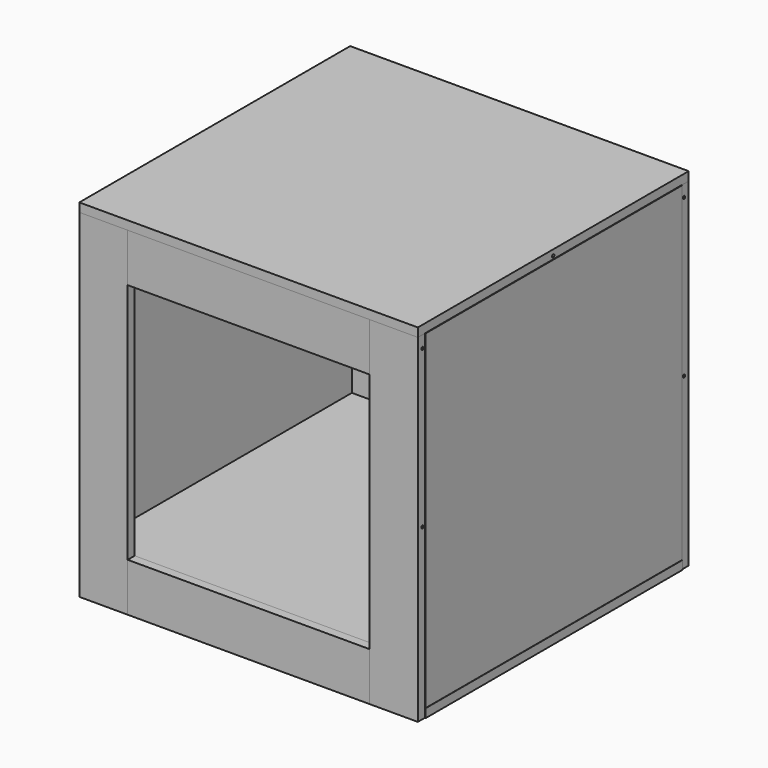
from build123d import *

# Parameters (mm, degrees)
F1_DEPTH    = 700
F0_W        = 18
F0_H        = 664
F2_DEPTH    = 700
F0_W_2      = 500
F0_H_2      = 18
F3_DEPTH    = 100
F4_W        = 500
F4_H        = 18
F5_DEPTH    = 100
F7_DEPTH    = 18
F8_W        = 18
F8_H        = 664
F9_DEPTH    = 18
F10_DEPTH   = 0.1
F11_DEPTH   = 0.1
F12_W       = 664
F12_H       = 682
F13_DEPTH   = 0.1
F14_W       = 664
F14_H       = 18
F14_H_2     = 682
F15_DEPTH   = 1
F16_W       = 664
F16_H       = 18
F17_DEPTH   = 0.5
F19_D       = 6
F19_DEPTH   = 11
F19_TIP     = 1.8025818571
F19_2_D     = 6
F19_2_DEPTH = 11
F19_2_TIP   = 1.8025818571
F19_3_D     = 6
F19_3_DEPTH = 11
F19_3_TIP   = 1.8025818571


with BuildPart() as f1:
    # F0 (on Top) → F1 (new body)
    with BuildSketch(Plane.XY):
        Polygon((-350, -350), (-250, -350), (-250, -332), (-332, -332), (-350, -332), align=None)
    extrude(amount=F1_DEPTH)


with BuildPart() as f1b:
    # F0 (on Top) → F1, piece 2 (new body)
    with BuildSketch(Plane.XY):
        Polygon((250, -350), (350, -350), (350, -332), (332, -332), (250, -332), align=None)
    extrude(amount=F1_DEPTH)

    # F19
    with Locations(Plane.YZ.offset(350)):
        with Locations((-338, 675), (0, 706), (338, 675), (338, 350), (-338, 350)):
            Hole(F19_D / 2, depth=F19_DEPTH)
            with Locations((0, 0, -(F19_DEPTH + F19_TIP / 2))):  # 118° drill point
                Cone(0, F19_D / 2, F19_TIP, mode=Mode.SUBTRACT)


with BuildPart() as f1c:
    # F0 (on Top) → F1, piece 3 (new body)
    with BuildSketch(Plane.XY):
        Polygon((332, 332), (350, 332), (350, 350), (250, 350), (250, 332), align=None)
    extrude(amount=F1_DEPTH)

    # F19#2
    with Locations(Plane.YZ.offset(350)):
        with Locations((-338, 675), (0, 706), (338, 675), (338, 350), (-338, 350)):
            Hole(F19_2_D / 2, depth=F19_2_DEPTH)
            with Locations((0, 0, -(F19_2_DEPTH + F19_2_TIP / 2))):  # 118° drill point
                Cone(0, F19_2_D / 2, F19_2_TIP, mode=Mode.SUBTRACT)


with BuildPart() as f1d:
    # F0 (on Top) → F1, piece 4 (new body)
    with BuildSketch(Plane.XY):
        Polygon((-350, 350), (-350, 332), (-332, 332), (-250, 332), (-250, 350), align=None)
    extrude(amount=F1_DEPTH)


with BuildPart() as f2:
    # F0 (on Top) → F2 (new body, through all)
    with BuildSketch(Plane.XY):
        with Locations((-341, 0)):
            Rectangle(F0_W, F0_H)
    extrude(amount=F2_DEPTH)


with BuildPart() as f2b:
    # F0 (on Top) → F2, piece 2 (new body, through all)
    with BuildSketch(Plane.XY):
        with Locations((341, 0)):
            Rectangle(F0_W, F0_H)
    extrude(amount=F2_DEPTH)


with BuildPart() as f3:
    # F0 (on Top) → F3 (new body)
    with BuildSketch(Plane.XY):
        with Locations((0, -341)):
            Rectangle(F0_W_2, F0_H_2)
    extrude(amount=F3_DEPTH)


with BuildPart() as f3b:
    # F0 (on Top) → F3, piece 2 (new body)
    with BuildSketch(Plane.XY):
        with Locations((0, 341)):
            Rectangle(F0_W_2, F0_H_2)
    extrude(amount=F3_DEPTH)


with BuildPart() as f5:
    # F4 (on face) → F5 (new body)
    with BuildSketch(Plane.XY.offset(700)):
        with Locations((0, 341)):
            Rectangle(F4_W, F4_H)
    extrude(amount=-F5_DEPTH)


with BuildPart() as f5b:
    # F4 (on face) → F5, piece 2 (new body)
    with BuildSketch(Plane.XY.offset(700)):
        with Locations((0, -341)):
            Rectangle(F4_W, F4_H)
    extrude(amount=-F5_DEPTH)


with BuildPart() as f7:
    # F6 (on face) → F7 (new body)
    with BuildSketch(Plane.XY.offset(100)):
        Polygon((332, -332), (332, 332), (250, 332), (-250, 332), (-332, 332), (-332, -332), align=None)
    extrude(amount=-F7_DEPTH)


with BuildPart() as f9:
    # F8 (on face) → F9 (new body)
    with BuildSketch(Plane.XY.offset(700)):
        Polygon((250, 350), (-250, 350), (-350, 350), (-350, 332), (-332, 332), (-332, -332), (-350, -332), (-350, -350), (-250, -350), (250, -350), (350, -350), (350, -332), (350, 332), (350, 350), align=None)
        with Locations((-341, 0)):
            Rectangle(F8_W, F8_H)
    extrude(amount=F9_DEPTH)


with BuildPart() as f10:
    # F10 (new): a face of the model
    f10_faces = [f9.part.faces().sort_by_distance(p)[0] for p in [
        (0, 0, 718),
    ]]
    extrude(f10_faces, amount=F10_DEPTH)


with BuildPart() as f11:
    # F11 (new): a face of the model
    f11_faces = [f2.part.faces().sort_by_distance(p)[0] for p in [
        (-350, 0, 350),
    ]]
    extrude(f11_faces, amount=F11_DEPTH)


with BuildPart() as f13:
    # F12 (on face) → F13 (new body)
    with BuildSketch(Plane.YZ.offset(350)):
        with Locations((0, 359)):
            Rectangle(F12_W, F12_H)
    extrude(amount=F13_DEPTH)


with BuildPart() as f15:
    # F14 (on face) → F15 (new body)
    with BuildSketch(Plane.YZ.offset(350.1)):
        with Locations((0, 9)):
            Rectangle(F14_W, F14_H)
        with Locations((0, 359)):
            Rectangle(F14_W, F14_H_2)
    extrude(amount=F15_DEPTH)


with BuildPart() as f17:
    # F16 (on face) → F17 (new body)
    with BuildSketch(Plane.YZ.offset(351.1)):
        with Locations((0, 9)):
            Rectangle(F16_W, F16_H)
    extrude(amount=F17_DEPTH)


with BuildPart() as f9_1:
    add(f9.part)

    # F19#3
    with Locations(Plane.YZ.offset(350)):
        with Locations((-338, 675), (0, 706), (338, 675), (338, 350), (-338, 350)):
            Hole(F19_3_D / 2, depth=F19_3_DEPTH)
            with Locations((0, 0, -(F19_3_DEPTH + F19_3_TIP / 2))):  # 118° drill point
                Cone(0, F19_3_D / 2, F19_3_TIP, mode=Mode.SUBTRACT)


solid = Compound([f1.part, f1b.part, f1c.part, f1d.part, f2.part, f2b.part, f3.part, f3b.part, f5.part, f5b.part, f7.part, f10.part, f11.part, f13.part, f15.part, f17.part, f9_1.part])
